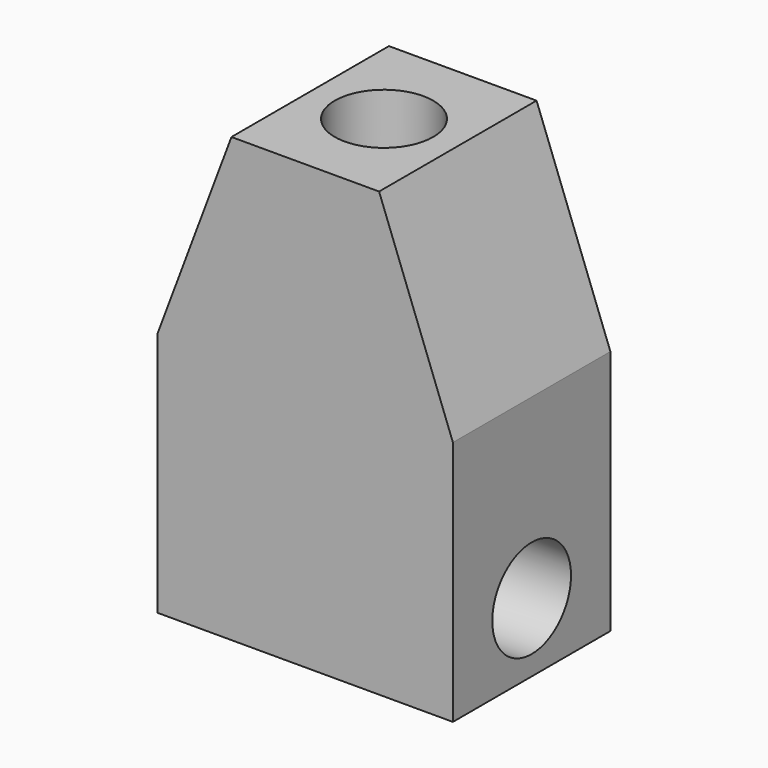
from build123d import *

# Parameters (mm, degrees)
F1_DEPTH = 2
F2_R     = 0.5
F3_DEPTH = 25
F4_R     = 0.5
F5_DEPTH = 25


with BuildPart() as f1:
    # F0 (on Front) → F1 (new body)
    with BuildSketch(Plane.XZ):
        Polygon((-1.5, -1.25), (1.5, -1.25), (1.5, 1.25), (0.75, 3.25), (-0.75, 3.25), (-1.5, 1.25), align=None)
    extrude(amount=F1_DEPTH)

    # F2 (on face) → F3 (cut)
    with BuildSketch(Plane.YZ.offset(1.5)):
        with Locations((-1, -0.55)):
            Circle(F2_R)
    extrude(amount=-F3_DEPTH, mode=Mode.SUBTRACT)

    # F4 (on face) → F5 (cut)
    with BuildSketch(Plane.XY.offset(3.25)):
        with Locations((0, -1)):
            Circle(F4_R)
    extrude(amount=-F5_DEPTH, mode=Mode.SUBTRACT)


solid = f1.part
